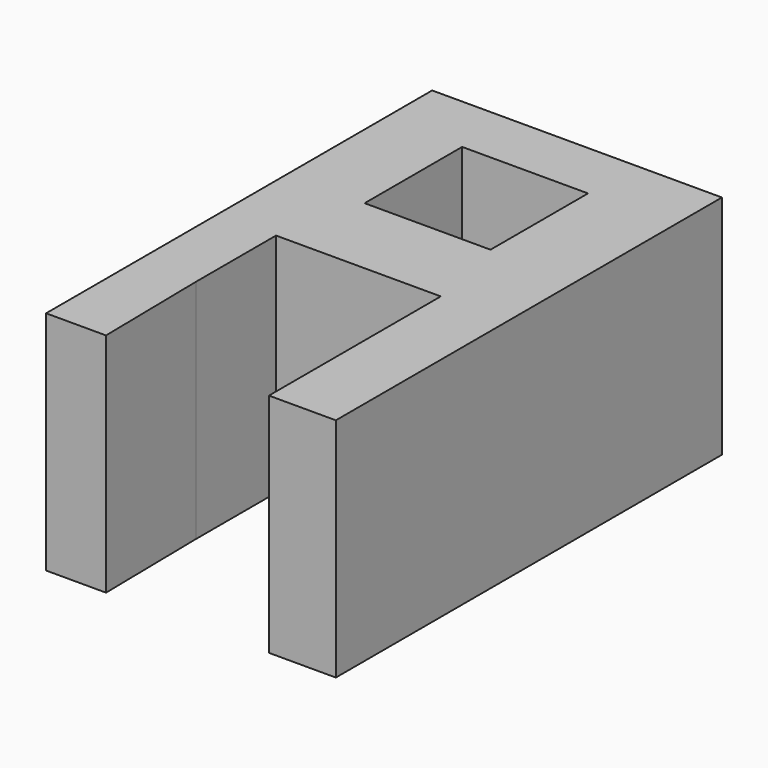
from build123d import *

# Parameters (mm, degrees)
F1_DEPTH = 25.4


with BuildPart() as f1:
    # F0 (on Top) → F1 (new body)
    with BuildSketch(Plane.XY):
        Polygon((0, 1.544545), (0, 0), (6.723529, 0), (6.515557, 12.894255), (6.515557, 24.092648), (15.912354, 24.092648), (24.992656, 24.092648), (24.992656, 1.972236), (24.992656, 0), (32.49706, 0), (32.49706, 54.124411), (0, 54.124411), (0, 37.675023), (0, 3.922059), align=None)
        Polygon((8.740585, 33.729706), (8.740585, 46.280295), (8.740585, 47.400884), (22.860004, 47.400884), (22.860004, 33.729706), (15.912354, 33.729706), align=None, mode=Mode.SUBTRACT)
    extrude(amount=F1_DEPTH)


solid = f1.part
